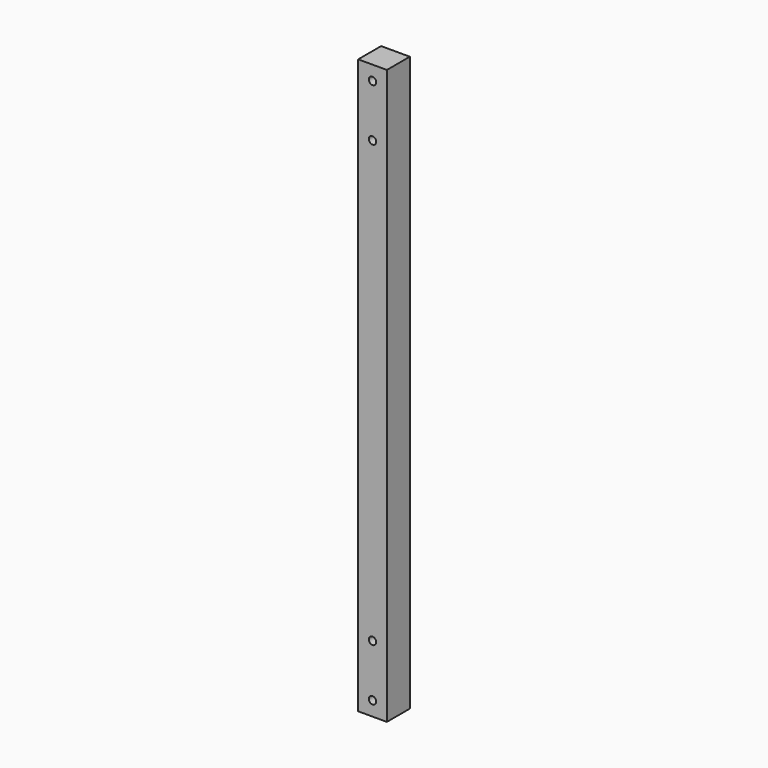
from build123d import *

# Parameters (mm, degrees)
F0_W     = 20
F0_H     = 20
F1_DEPTH = 400
F2_R     = 2.6
F3_DEPTH = 20


with BuildPart() as f1:
    # F0 (on Top) → F1 (new body)
    with BuildSketch(Plane.XY):
        with Locations((10, -10)):
            Rectangle(F0_W, F0_H)
    extrude(amount=F1_DEPTH)

    # F2 (on face) → F3 (cut)
    with BuildSketch(Plane.XZ.offset(20)):
        with Locations((10, 10)):
            Circle(F2_R)
        with Locations((10, 390)):
            Circle(F2_R)
        with Locations((10, 353.5)):
            Circle(F2_R)
        with Locations((10, 46.5)):
            Circle(F2_R)
    extrude(amount=-F3_DEPTH, mode=Mode.SUBTRACT)


solid = f1.part
